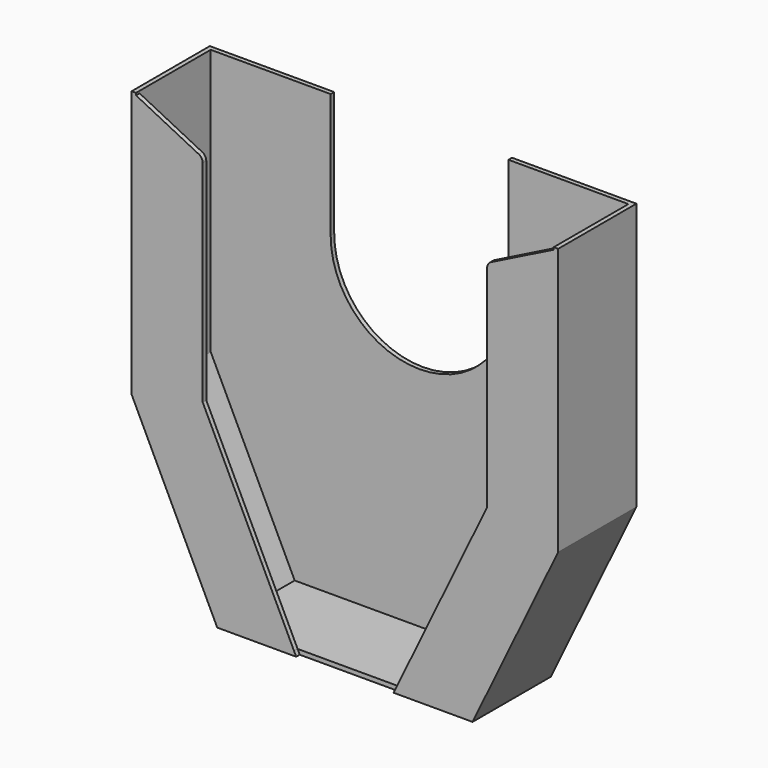
from build123d import *

# Parameters (mm, degrees)
F1_DEPTH = 3.175
F3_DEPTH = 63.5
F5_DEPTH = 3.175
F6_R     = 5.08


with BuildPart() as f1:
    # F0 (on Front) → F1 (new body)
    with BuildSketch(Plane.XZ):
        with BuildLine():
            Line((0, -24.5087207538), (0, -189.6087207538))
            ThreePointArc((0, -189.6087207538), (98.7828173318, -148.6915380856), (139.7, -49.9087207538))
            ThreePointArc((139.7, -49.9087207538), (119.1365602995, 23.0472248572), (63.5, 74.5253581796))
            Line((63.5, 74.5253581796), (63.5, 38.9912792462))
            ThreePointArc((63.5, 38.9912792462), (44.9012806053, -5.9100013592), (0, -24.5087207538))
        make_face()
        with BuildLine():
            ThreePointArc((-63.5, 74.5253581795), (-135.8299135445, -82.5633465594), (0, -189.6087207538))
            Line((0, -189.6087207538), (0, -24.5087207538))
            ThreePointArc((0, -24.5087207538), (-44.9012806053, -5.9100013592), (-63.5, 38.9912792462))
            Line((-63.5, 38.9912792462), (-63.5, 74.5253581795))
        make_face()
        with BuildLine():
            Line((-152.4, 127.8912792462), (-152.4, -62.8556646327))
            Line((-152.4, -62.8556646327), (-91.2153361462, -189.6087207538))
            Line((-91.2153361462, -189.6087207538), (0, -189.6087207538))
            ThreePointArc((0, -189.6087207538), (-135.8299135445, -82.5633465594), (-63.5, 74.5253581795))
            Line((-63.5, 74.5253581795), (-63.5, 127.8912792462))
            Line((-63.5, 127.8912792462), (-152.4, 127.8912792462))
        make_face()
        with BuildLine():
            ThreePointArc((139.7, -49.9087207538), (98.7828173318, -148.6915380856), (0, -189.6087207538))
            Line((0, -189.6087207538), (91.2153361462, -189.6087207538))
            Line((91.2153361462, -189.6087207538), (152.4, -62.8556646327))
            Line((152.4, -62.8556646327), (152.4, 127.8912792462))
            Line((152.4, 127.8912792462), (63.5, 127.8912792462))
            Line((63.5, 127.8912792462), (63.5, 74.5253581796))
            ThreePointArc((63.5, 74.5253581796), (119.1365602995, 23.0472248572), (139.7, -49.9087207538))
        make_face()
        with BuildLine():
            Line((-152.4, 127.8912792462), (-152.4, -62.8556646327))
            Line((-152.4, -62.8556646327), (-91.2153361462, -189.6087207538))
            Line((-91.2153361462, -189.6087207538), (0, -189.6087207538))
            ThreePointArc((0, -189.6087207538), (-135.8299135445, -82.5633465594), (-63.5, 74.5253581795))
            Line((-63.5, 74.5253581795), (-63.5, 127.8912792462))
            Line((-63.5, 127.8912792462), (-152.4, 127.8912792462))
        make_face()
        with BuildLine():
            ThreePointArc((139.7, -49.9087207538), (98.7828173318, -148.6915380856), (0, -189.6087207538))
            Line((0, -189.6087207538), (91.2153361462, -189.6087207538))
            Line((91.2153361462, -189.6087207538), (152.4, -62.8556646327))
            Line((152.4, -62.8556646327), (152.4, 127.8912792462))
            Line((152.4, 127.8912792462), (63.5, 127.8912792462))
            Line((63.5, 127.8912792462), (63.5, 74.5253581796))
            ThreePointArc((63.5, 74.5253581796), (119.1365602995, 23.0472248572), (139.7, -49.9087207538))
        make_face()
        with BuildLine():
            Line((0, -24.5087207538), (0, -189.6087207538))
            ThreePointArc((0, -189.6087207538), (98.7828173318, -148.6915380856), (139.7, -49.9087207538))
            ThreePointArc((139.7, -49.9087207538), (119.1365602995, 23.0472248572), (63.5, 74.5253581796))
            Line((63.5, 74.5253581796), (63.5, 38.9912792462))
            ThreePointArc((63.5, 38.9912792462), (44.9012806053, -5.9100013592), (0, -24.5087207538))
        make_face()
    extrude(amount=F1_DEPTH)

    # F2 (on face) → F3 (join)
    with BuildSketch(Plane.XZ.offset(3.175)):
        Polygon((-149.225, -62.1294560471), (-149.225, 127.8912792462), (-152.4, 127.8912792462), (-152.4, -62.8556646327), (-91.2153361462, -189.6087207538), (91.2153361462, -189.6087207538), (152.4, -62.8556646327), (152.4, 127.8912792462), (149.225, 127.8912792462), (149.225, -62.1294560471), (89.2223863794, -186.4337207538), (-89.2223863794, -186.4337207538), align=None)
    extrude(amount=F3_DEPTH)

    # F4 (on face) → F5 (join)
    with BuildSketch(Plane.XZ.offset(66.675)):
        Polygon((59.3281398768, -138.8087207538), (36.3391902988, -186.4337207538), (89.2223863794, -186.4337207538), (149.225, -62.1294560471), (149.225, 126.3037792462), (101.6, 102.4912792462), (101.6, -51.2363272641), align=None)
        Polygon((-101.6, 102.4912792462), (-149.225, 126.3037792462), (-149.225, -62.1294560471), (-89.2223863794, -186.4337207538), (-36.3391902988, -186.4337207538), (-59.3281398768, -138.8087207538), (-101.6, -51.2363272641), align=None)
        Polygon((36.3391902988, -186.4337207538), (34.8065936602, -189.6087207538), (91.2153361462, -189.6087207538), (152.4, -62.8556646327), (152.4, 127.8912792462), (149.225, 126.3037792462), (149.225, -62.1294560471), (89.2223863794, -186.4337207538), align=None)
        Polygon((-149.225, 126.3037792462), (-152.4, 127.8912792462), (-152.4, -62.8556646327), (-91.2153361462, -189.6087207538), (-34.8065936602, -189.6087207538), (-36.3391902988, -186.4337207538), (-89.2223863794, -186.4337207538), (-149.225, -62.1294560471), align=None)
        Polygon((149.225, 126.3037792462), (152.4, 127.8912792462), (149.225, 127.8912792462), align=None)
        Polygon((-149.225, 127.8912792462), (-152.4, 127.8912792462), (-149.225, 126.3037792462), align=None)
    extrude(amount=F5_DEPTH)

    # F6
    f6_edges = [f1.edges().sort_by_distance(p)[0] for p in [
        (101.6, -68.2625, 102.491279),
        (-101.6, -68.2625, 102.491279),
    ]]
    fillet(f6_edges, radius=F6_R)


solid = f1.part
